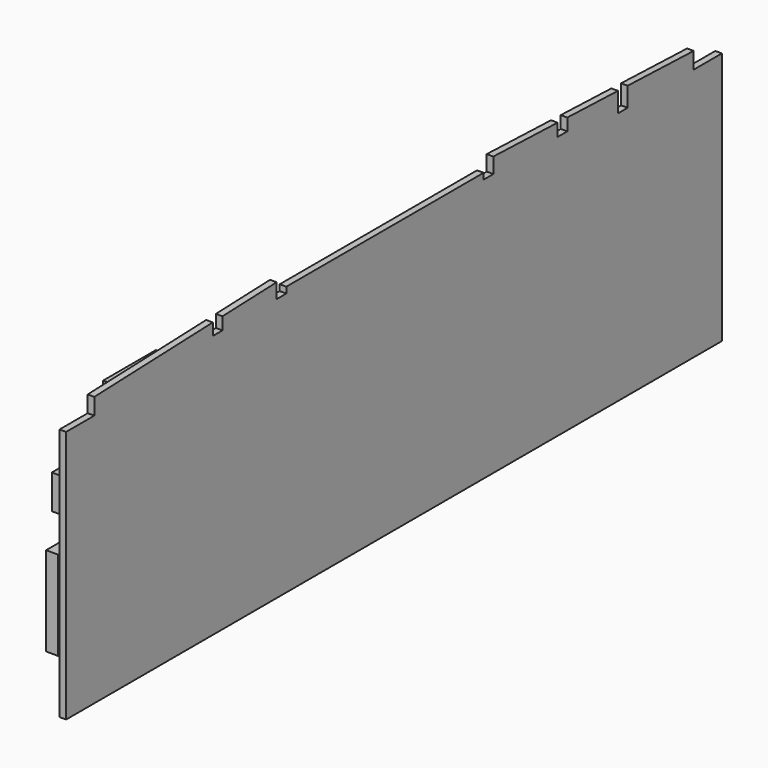
from build123d import *

# Parameters (mm, degrees)
F1_DEPTH = 1.2
F2_W     = 4.9
F2_H     = 6.2
F2_W_2   = 4.6
F2_H_2   = 16.2
F2_W_3   = 0.3
F2_H_3   = 24.4
F4_DEPTH = 2.2
F2_W_4   = 12
F2_H_4   = 16
F5_DEPTH = 2.4
F2_W_5   = 5.2
F2_H_5   = 7.8
F6_DEPTH = 1


with BuildPart() as f1:
    # F0 (on Right) → F1 (new body)
    with BuildSketch(Plane.YZ):
        Polygon((74.45, 0), (74.45, 46), (68.05, 46), (68.05, 49), (53.05, 49.527473), (53.05, 46), (50.85, 46), (50.85, 49.604835), (39.35, 50.009231), (39.35, 47.8), (37.15, 47.8), (37.15, 50.086593), (22.55, 50.6), (22.55, 47.8), (20.35, 47.8), (20.35, 48.9), (-24.45, 48.9), (-24.45, 47.8), (-26.65, 47.8), (-26.65, 50.5), (-38.95, 50.054348), (-38.95, 47.8), (-41.15, 47.8), (-41.15, 49.974638), (-68.05, 49), (-68.05, 46), (-74.45, 46), (-74.45, 0), align=None)
    extrude(amount=F1_DEPTH)

    # F2 (on face) → F4 (join)
    with BuildSketch(Plane(origin=(0, 0, 0), x_dir=(0, -1, 0), z_dir=(-1, 0, 0))):
        with Locations((71, 34.9)):
            Rectangle(F2_W, F2_H)
        with Locations((72.15, 18)):
            Rectangle(F2_W_2, F2_H_2)
        with Locations((74.6, 18)):
            Rectangle(F2_W_3, F2_H_2)
        with Locations((-8.7, 13.2)):
            Rectangle(F2_W, F2_H_3)
    extrude(amount=F4_DEPTH)

    # F2 (on face) → F5 (join)
    with BuildSketch(Plane(origin=(0, 0, 0), x_dir=(0, -1, 0), z_dir=(-1, 0, 0))):
        with Locations((55.55, 39.8)):
            Rectangle(F2_W_4, F2_H_4)
    extrude(amount=F5_DEPTH)

    # F2 (on face) → F6 (join)
    with BuildSketch(Plane(origin=(0, 0, 0), x_dir=(0, -1, 0), z_dir=(-1, 0, 0))):
        with Locations((50.35, 21.4)):
            Rectangle(F2_W_5, F2_H_5)
        with Locations((59.55, 21.4)):
            Rectangle(F2_W_5, F2_H_5)
    extrude(amount=F6_DEPTH)


solid = f1.part
